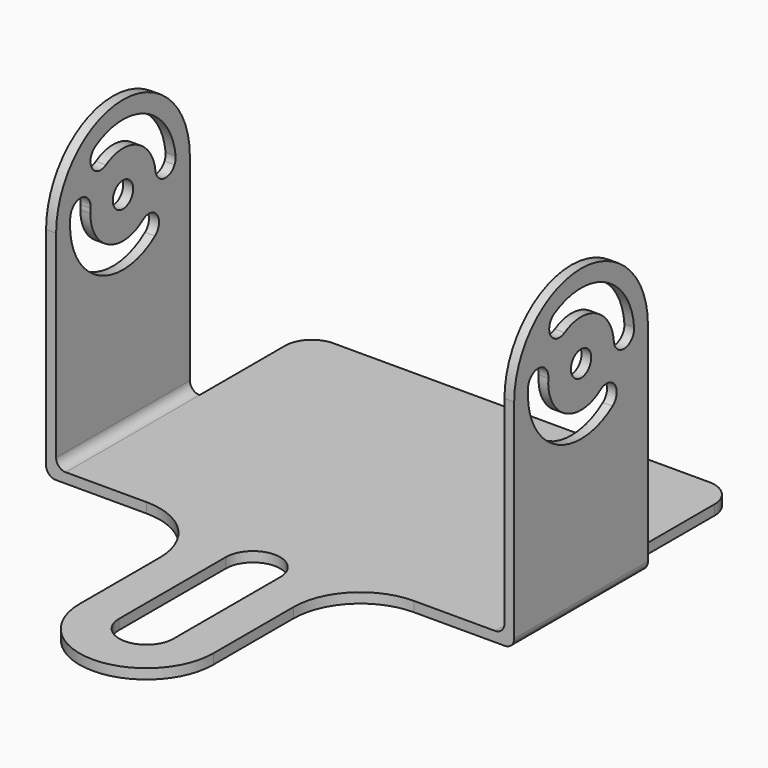
from build123d import *

# Parameters (mm, degrees)
F1_DEPTH = 1.905
F3_DEPTH = 1.905
F4_R     = 1.8415
F5_R     = 2.413
F6_DEPTH = 1.8415
F7_R     = 1.778
F8_W     = 81.534
F8_H     = 1.905
F9_DEPTH = 25.4
F10_R    = 5.08


with BuildPart() as f1:
    # F0 (on Top) → F1 (new body)
    with BuildSketch(Plane.XY):
        with BuildLine():
            Line((44.45, -15.875), (44.45, 15.875))
            Line((44.45, 15.875), (-44.45, 15.875))
            Line((-44.45, 15.875), (-44.45, -15.875))
            Line((-44.45, -15.875), (-25.4, -15.875))
            ThreePointArc((-25.4, -15.875), (-16.4197438789, -19.5947438789), (-12.7, -28.575))
            Line((-12.7, -28.575), (-12.7, -47.625))
            ThreePointArc((-12.7, -47.625), (0, -60.325), (12.7, -47.625))
            Line((12.7, -47.625), (12.7, -28.575))
            ThreePointArc((12.7, -28.575), (16.4197438789, -19.5947438789), (25.4, -15.875))
            Line((25.4, -15.875), (44.45, -15.875))
        make_face()
        with BuildLine():
            Line((5.1562, -22.3163515329), (5.1562, -47.625))
            ThreePointArc((5.1562, -47.625), (0, -52.7812), (-5.1562, -47.625))
            Line((-5.1562, -47.625), (-5.1562, -22.3163515329))
            ThreePointArc((-5.1562, -22.3163515329), (0, -17.1601515329), (5.1562, -22.3163515329))
        make_face(mode=Mode.SUBTRACT)
    extrude(amount=F1_DEPTH)

    # F2 (on face) → F3 (join)
    with BuildSketch(Plane(origin=(-44.45, 0, 0), x_dir=(0, -1, 0), z_dir=(-1, 0, 0))):
        with BuildLine():
            Line((-15.875, 41.275), (-15.875, 1.905))
            Line((-15.875, 1.905), (15.875, 1.905))
            Line((15.875, 1.905), (15.875, 41.275))
            Line((15.875, 41.275), (12.573, 41.275))
            ThreePointArc((12.573, 41.275), (5.5897728619, 30.0129056853), (-7.6027366345, 31.2610734641))
            ThreePointArc((-7.6027366345, 31.2610734641), (-8.0654902519, 34.6420492241), (-4.6845144919, 35.1048028415))
            ThreePointArc((-4.6845144919, 35.1048028415), (3.4442034806, 34.3357297657), (7.747, 41.275))
            Line((7.747, 41.275), (2.413, 41.275))
            ThreePointArc((2.413, 41.275), (0, 38.862), (-2.413, 41.275))
            Line((-2.413, 41.275), (-7.9572815939, 41.275))
            ThreePointArc((-7.9572815939, 41.275), (-10.0990117962, 39.9735577991), (-12.2407419985, 41.275))
            Line((-12.2407419985, 41.275), (-15.875, 41.275))
        make_face()
        with BuildLine():
            ThreePointArc((15.875, 41.275), (0, 57.15), (-15.875, 41.275))
            Line((-15.875, 41.275), (-12.2407419985, 41.275))
            ThreePointArc((-12.2407419985, 41.275), (-12.4710349135, 41.9437538571), (-12.4975270978, 42.6505527763))
            ThreePointArc((-12.4975270978, 42.6505527763), (-5.5381580453, 52.56256548), (6.5600004581, 52.0009835442))
            ThreePointArc((6.5600004581, 52.0009835442), (7.3595325655, 48.6834714629), (4.0420204843, 47.8839393555))
            ThreePointArc((4.0420204843, 47.8839393555), (-3.4124004118, 48.2299645887), (-7.7004964946, 42.1225628218))
            ThreePointArc((-7.7004964946, 42.1225628218), (-7.7896724982, 41.6869000206), (-7.9572815939, 41.275))
            Line((-7.9572815939, 41.275), (-2.413, 41.275))
            ThreePointArc((-2.413, 41.275), (0, 43.688), (2.413, 41.275))
            Line((2.413, 41.275), (7.747, 41.275))
            ThreePointArc((7.747, 41.275), (7.7353653871, 41.6994188123), (7.7004964946, 42.1225628218))
            ThreePointArc((7.7004964946, 42.1225628218), (9.8350168189, 44.7850731007), (12.4975270978, 42.6505527763))
            ThreePointArc((12.4975270978, 42.6505527763), (12.5541175954, 41.9638108593), (12.573, 41.275))
            Line((12.573, 41.275), (15.875, 41.275))
        make_face()
    extrude(amount=-F3_DEPTH)

    # F4
    f4_edges = [f1.edges().sort_by_distance(p)[0] for p in [
        (-44.45, 0, 0),
        (-42.545, 0, 1.905),
    ]]
    fillet(f4_edges, radius=F4_R)

    # F5 (on face) → F6 (join)
    with BuildSketch(Plane.YZ.offset(44.45)):
        with BuildLine():
            Line((-15.875, 41.3385), (-15.875, 1.905))
            Line((-15.875, 1.905), (-15.875, 0))
            Line((-15.875, 0), (15.875, 0))
            Line((15.875, 0), (15.875, 1.905))
            Line((15.875, 1.905), (15.875, 41.3385))
            ThreePointArc((15.875, 41.3385), (0, 57.2135), (-15.875, 41.3385))
        make_face()
        with BuildLine():
            ThreePointArc((-7.7672171262, 42.0276193774), (-3.8210671013, 34.5402395867), (4.6265424964, 35.0606704009))
            ThreePointArc((4.6265424964, 35.0606704009), (8.0006043661, 34.5499410208), (7.4898749861, 31.1758791512))
            ThreePointArc((7.4898749861, 31.1758791512), (-6.1858969034, 30.3333576051), (-12.5742896147, 42.4546206538))
            ThreePointArc((-12.5742896147, 42.4546206538), (-9.9572527322, 44.6446562598), (-7.7672171262, 42.0276193774))
        make_face(mode=Mode.SUBTRACT)
        with Locations((0, 41.3376752096)):
            Circle(F5_R, mode=Mode.SUBTRACT)
        with BuildLine():
            ThreePointArc((-6.3605039749, 52.2420007561), (5.8932381714, 52.5014590796), (12.591700736, 42.2373412666))
            ThreePointArc((12.591700736, 42.2373412666), (10.3568047712, 39.6585085798), (7.7779720844, 41.8934045446))
            ThreePointArc((7.7779720844, 41.8934045446), (3.6402899771, 48.2336141393), (-3.9289229785, 48.0733451146))
            ThreePointArc((-3.9289229785, 48.0733451146), (-7.2290412974, 48.9418824372), (-6.3605039749, 52.2420007561))
        make_face(mode=Mode.SUBTRACT)
    extrude(amount=-F6_DEPTH)

    # F7
    f7_edges = [f1.edges().sort_by_distance(p)[0] for p in [
        (44.45, 0, 0),
        (42.6085, 0, 1.905),
    ]]
    fillet(f7_edges, radius=F7_R)

    # F8 (on face) → F9 (join)
    with BuildSketch(Plane(origin=(0, 15.875, 0), x_dir=(-1, 0, 0), z_dir=(0, 1, 0))):
        with Locations((-0.0635, 0.9525)):
            Rectangle(F8_W, F8_H)
    extrude(amount=F9_DEPTH)

    # F10
    f10_edges = [f1.edges().sort_by_distance(p)[0] for p in [
        (40.8305, 41.275, 0.9525),
        (-40.7035, 41.275, 0.9525),
    ]]
    fillet(f10_edges, radius=F10_R)


solid = f1.part
